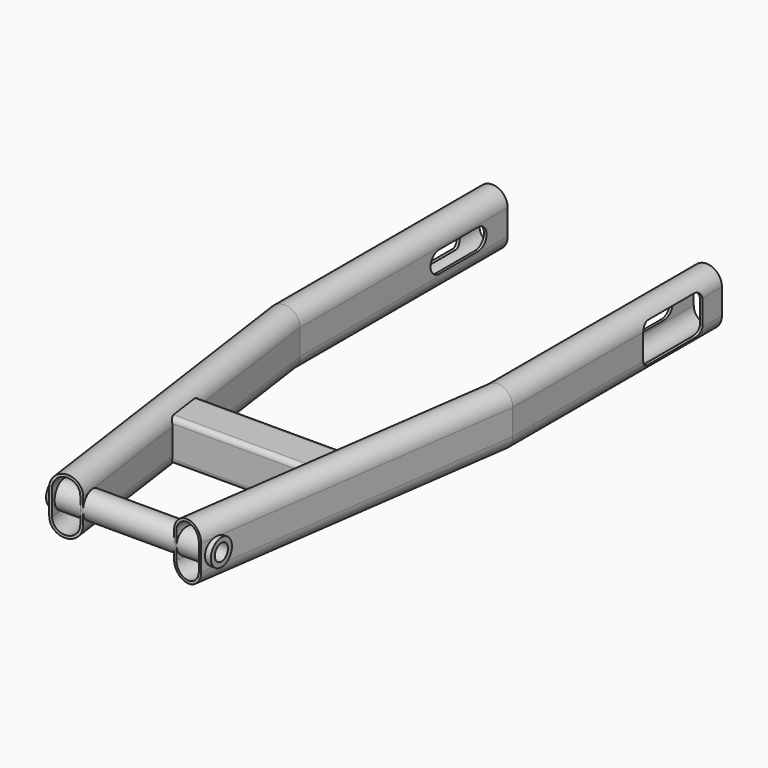
from build123d import *

# Parameters (mm, degrees)
F4_R      = 8
F5_DEPTH  = 50
F6_R      = 5
F7_DEPTH  = 100
F9_DEPTH  = 55
F11_DEPTH = 60
F13_DEPTH = 10
F15_DEPTH = 10


with BuildPart() as f2:
    # F2: sweep along a path in F1
    with BuildLine(Plane.XY) as f2_path:
        Line((-65, 0), (-65, -158.03))
        Line((-65, -158.03), (-36.8369312897, -358.4206463905))
    # F0 (on Front) → F2 (sweep)
    with BuildSketch(Plane.XZ):
        with BuildLine():
            Line((-55.65, -7.75), (-55.65, 7.75))
            ThreePointArc((-55.65, 7.75), (-65, 17.1), (-74.35, 7.75))
            Line((-74.35, 7.75), (-74.35, -7.75))
            ThreePointArc((-74.35, -7.75), (-65, -17.1), (-55.65, -7.75))
        make_face()
        with BuildLine():
            Line((-57.25, 7.75), (-57.25, -7.75))
            ThreePointArc((-57.25, -7.75), (-65, -15.5), (-72.75, -7.75))
            Line((-72.75, -7.75), (-72.75, 7.75))
            ThreePointArc((-72.75, 7.75), (-65, 15.5), (-57.25, 7.75))
        make_face(mode=Mode.SUBTRACT)
    sweep(path=f2_path.line, transition=Transition.RIGHT)


with BuildPart() as f3_1:
    # F3: instance of F2
    add(f2.part.mirror(Plane.YZ))


with BuildPart() as f2_1:
    add(f2.part)

    add(f3_1.part)  # F5 merges F3_1
    # F4 (on Right) → F5 (join, symmetric)
    with BuildSketch(Plane.YZ):
        with Locations((-349.2419148845, 0)):
            Circle(F4_R)
    extrude(amount=F5_DEPTH, both=True)

    # F6 (on face) → F7 (cut)
    with BuildSketch(Plane.YZ.offset(50)):
        with Locations((-349.2419148845, 0)):
            Circle(F6_R)
    extrude(amount=-F7_DEPTH, mode=Mode.SUBTRACT)

    # F8 (on Right) → F9 (join, symmetric)
    with BuildSketch(Plane.YZ):
        with BuildLine():
            Line((-252.9016655511, 12.5), (-271.9119148845, 12.5))
            ThreePointArc((-271.9119148845, 12.5), (-274.0332352281, 11.6213203436), (-274.9119148845, 9.5))
            Line((-274.9119148845, 9.5), (-274.9119148845, -9.5))
            ThreePointArc((-274.9119148845, -9.5), (-274.0332352281, -11.6213203436), (-271.9119148845, -12.5))
            Line((-271.9119148845, -12.5), (-252.9016655511, -12.5))
            ThreePointArc((-252.9016655511, -12.5), (-250.7803452075, -11.6213203436), (-249.9016655511, -9.5))
            Line((-249.9016655511, -9.5), (-249.9016655511, 9.5))
            ThreePointArc((-249.9016655511, 9.5), (-250.7803452075, 11.6213203436), (-252.9016655511, 12.5))
        make_face()
        with BuildLine():
            ThreePointArc((-273.3119148845, 9.5), (-272.9018643782, 10.4899494937), (-271.9119148845, 10.9))
            Line((-271.9119148845, 10.9), (-252.9016655511, 10.9))
            ThreePointArc((-252.9016655511, 10.9), (-251.9117160574, 10.4899494937), (-251.5016655511, 9.5))
            Line((-251.5016655511, 9.5), (-251.5016655511, -9.5))
            ThreePointArc((-251.5016655511, -9.5), (-251.9117160574, -10.4899494937), (-252.9016655511, -10.9))
            Line((-252.9016655511, -10.9), (-271.9119148845, -10.9))
            ThreePointArc((-271.9119148845, -10.9), (-272.9018643782, -10.4899494937), (-273.3119148845, -9.5))
            Line((-273.3119148845, -9.5), (-273.3119148845, 9.5))
        make_face(mode=Mode.SUBTRACT)
    extrude(amount=F9_DEPTH, both=True)

    # F10 (on Right) → F11 (cut, symmetric)
    with BuildSketch(Plane.YZ):
        with BuildLine():
            ThreePointArc((-52.04, 6.5), (-58.54, 0), (-52.04, -6.5))
            Line((-52.04, -6.5), (-22.54, -6.5))
            ThreePointArc((-22.54, -6.5), (-16.04, 0), (-22.54, 6.5))
            Line((-22.54, 6.5), (-52.04, 6.5))
        make_face()
    extrude(amount=F11_DEPTH, both=True, mode=Mode.SUBTRACT)

    # F12 (on face) → F13 (cut)
    with BuildSketch(Plane.YZ.offset(74.35)):
        with BuildLine():
            Line((-19.76, 12), (-54.76, 12))
            ThreePointArc((-54.76, 12), (-58.2955339059, 10.5355339059), (-59.76, 7))
            Line((-59.76, 7), (-59.76, -7))
            ThreePointArc((-59.76, -7), (-58.2955339059, -10.5355339059), (-54.76, -12))
            Line((-54.76, -12), (-19.76, -12))
            ThreePointArc((-19.76, -12), (-16.2244660941, -10.5355339059), (-14.76, -7))
            Line((-14.76, -7), (-14.76, 7))
            ThreePointArc((-14.76, 7), (-16.2244660941, 10.5355339059), (-19.76, 12))
        make_face()
    extrude(amount=-F13_DEPTH, mode=Mode.SUBTRACT)

    # F14 (on face) → F15 (cut)
    with BuildSketch(Plane(origin=(-74.35, 0, 0), x_dir=(0, -1, 0), z_dir=(-1, 0, 0))):
        with BuildLine():
            ThreePointArc((59.76, 7), (58.2955339059, 10.5355339059), (54.76, 12))
            Line((54.76, 12), (19.76, 12))
            ThreePointArc((19.76, 12), (16.2244660941, 10.5355339059), (14.76, 7))
            Line((14.76, 7), (14.76, -7))
            ThreePointArc((14.76, -7), (16.2244660941, -10.5355339059), (19.76, -12))
            Line((19.76, -12), (54.76, -12))
            ThreePointArc((54.76, -12), (58.2955339059, -10.5355339059), (59.76, -7))
            Line((59.76, -7), (59.76, 7))
        make_face()
    extrude(amount=-F15_DEPTH, mode=Mode.SUBTRACT)


solid = f2_1.part
